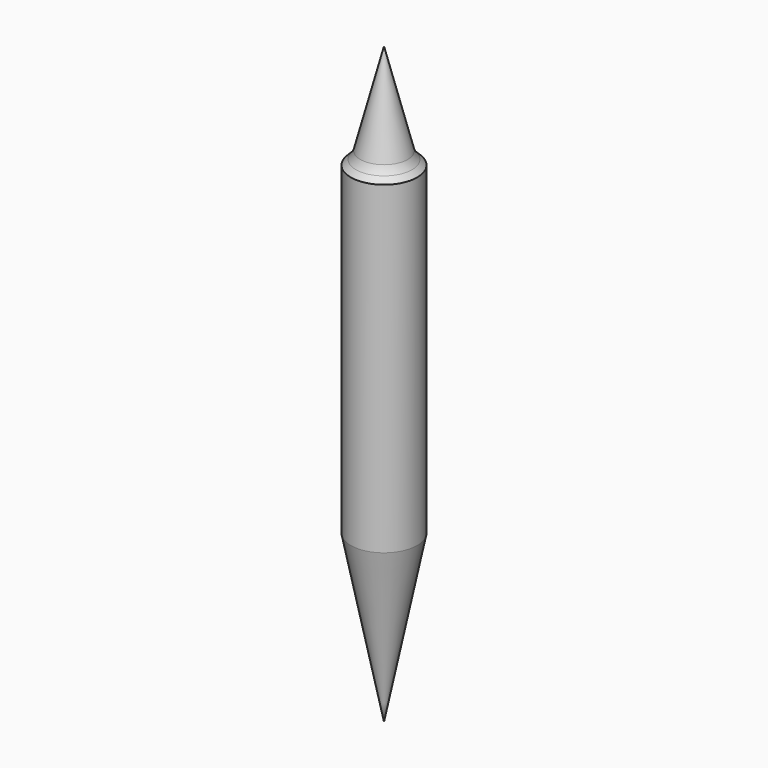
from build123d import *

# Parameters (mm, degrees)
F0_R     = 40
F1_DEPTH = 400
F6_R     = 20


with BuildPart() as f1:
    # F0 (on Top) → F1 (new body)
    with BuildSketch(Plane.XY):
        Circle(F0_R)
    extrude(amount=-F1_DEPTH)

    # F2 (on Front) → F3 (revolve, cut)
    with BuildSketch(Plane.XZ):
        Polygon((-40, 0), (-40, -10), (-30, 0), align=None)
    revolve(axis=Axis((0, 0, -3.875099), (0, 0, -1)), mode=Mode.SUBTRACT)

    # F4 (on Front) → F5 (revolve)
    with BuildSketch(Plane.XZ):
        Polygon((-30, 0), (0, 0), (0, 116.126455), align=None)
    revolve(axis=Axis((0, 0, 58.063228), (0, 0, 1)))

    # F6
    f6_edges = [f1.edges().sort_by_distance(p)[0] for p in [
        (30, 0, 0),
    ]]
    fillet(f6_edges, radius=F6_R)

    # F7 (on Front) → F8 (revolve)
    with BuildSketch(Plane.XZ):
        Polygon((0, -400), (-40, -400), (0, -600), align=None)
    revolve(axis=Axis((0, 0, -500), (0, 0, -1)))


solid = f1.part
